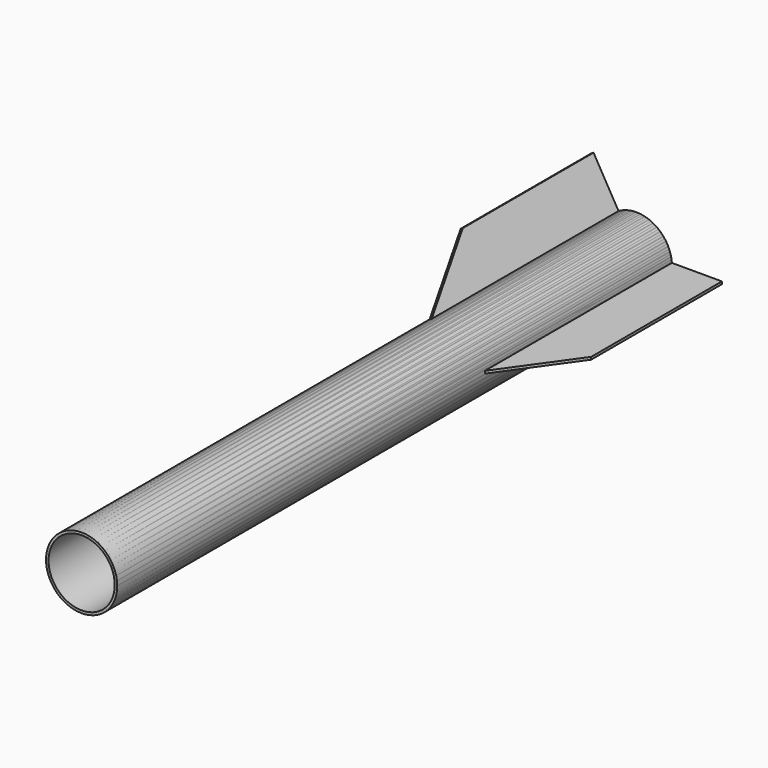
from build123d import *

# Parameters (mm, degrees)
F0_R     = 11.3
F0_R_2   = 10.5
F1_DEPTH = 220
F3_DEPTH = 0.8
F4_COUNT = 3


with BuildPart() as f1:
    # F0 (on Front) → F1 (new body)
    with BuildSketch(Plane.XZ):
        Circle(F0_R)
        Circle(F0_R_2, mode=Mode.SUBTRACT)
    extrude(amount=F1_DEPTH)

    # F2 (on Top) → F3 (join)
    with BuildSketch(Plane.XY):
        Polygon((10.800536, 0), (10.800536, -74.794441), (27.148454, -51.849995), (27.148454, 0), align=None)
    extrude(amount=F3_DEPTH)


with BuildPart() as f4_1:
    # F4: instance of F1
    add(f1.part.rotate(Axis((0, 0, 0), (0, 1, 0)), 1 * 360 / F4_COUNT))


with BuildPart() as f4_2:
    # F4: instance of F1
    add(f1.part.rotate(Axis((0, 0, 0), (0, 1, 0)), 2 * 360 / F4_COUNT))


solid = Compound([f1.part, f4_1.part, f4_2.part])
